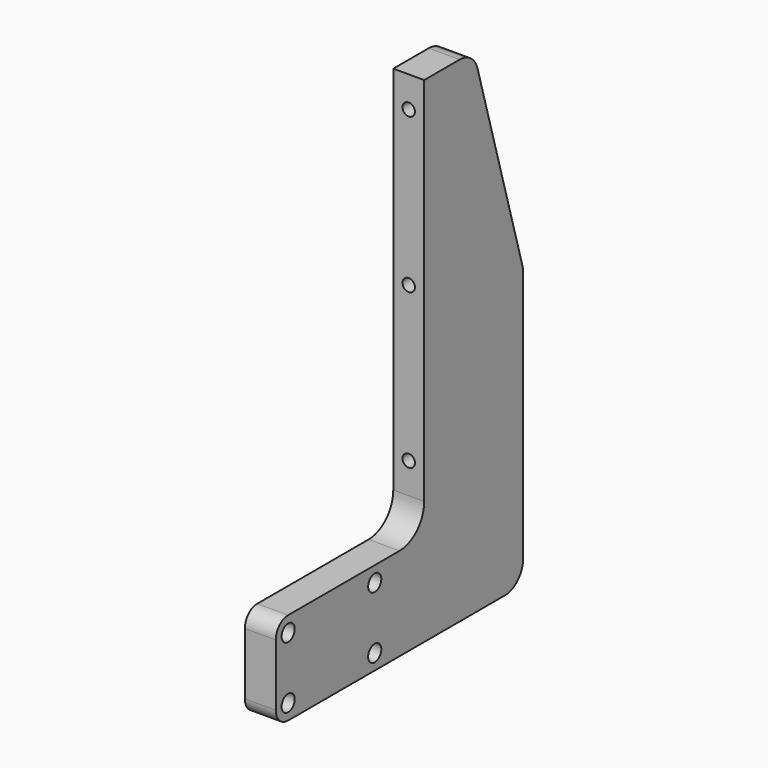
from build123d import *

# Parameters (mm, degrees)
F0_W     = 127
F0_H     = 203.2
F1_DEPTH = 12.7
F3_D     = 6.7564
F4_W     = 76.2
F4_H     = 165.1
F5_DEPTH = 12.7
F7_R     = 12.7
F8_D     = 5.1054
F8_DEPTH = 22.859997
F8_TIP   = 1.5338169022
F9_SIZE2 = 88.9
F9_SIZE  = 25.4
F10_R    = 9.525
F11_R    = 6.35


with BuildPart() as f1:
    # F0 (on Right) → F1 (new body)
    with BuildSketch(Plane.YZ):
        with Locations((63.5, 101.6)):
            Rectangle(F0_W, F0_H)
    extrude(amount=F1_DEPTH)

    # F3 (through all)
    with Locations(Plane.YZ.offset(12.7)):
        with Locations((6.35, 31.75), (50.8, 31.75), (50.8, 6.35), (6.35, 6.35)):
            Hole(F3_D / 2)

    # F4 (on face) → F5 (cut, through all)
    with BuildSketch(Plane.YZ.offset(12.7)):
        with Locations((38.1, 120.65)):
            Rectangle(F4_W, F4_H)
    extrude(amount=-F5_DEPTH, mode=Mode.SUBTRACT)

    # F7
    f7_edges = [f1.edges().sort_by_distance(p)[0] for p in [
        (6.35, 76.2, 38.1),
    ]]
    fillet(f7_edges, radius=F7_R)

    # F8
    with Locations(Plane.XZ.offset(-76.2)):
        with Locations((6.35, 190.5), (6.35, 127), (6.35, 63.5)):
            Hole(F8_D / 2, depth=F8_DEPTH)
            with Locations((0, 0, -(F8_DEPTH + F8_TIP / 2))):  # 118° drill point
                Cone(0, F8_D / 2, F8_TIP, mode=Mode.SUBTRACT)

    # F9
    f9_edges = [f1.edges().sort_by_distance(p)[0] for p in [
        (6.35, 127, 203.2),
    ]]
    f9_side = f1.faces().sort_by_distance((6.35, 101.6, 203.2))[0]
    chamfer(f9_edges, length=F9_SIZE, length2=F9_SIZE2, reference=f9_side)

    # F10
    f10_edges = [f1.edges().sort_by_distance(p)[0] for p in [
        (6.35, 127, 0),
        (6.35, 101.6, 203.2),
        (6.35, 127, 114.3),
    ]]
    fillet(f10_edges, radius=F10_R)

    # F11
    f11_edges = [f1.edges().sort_by_distance(p)[0] for p in [
        (6.35, 0, 38.1),
        (6.35, 0, 0),
    ]]
    fillet(f11_edges, radius=F11_R)


solid = f1.part
